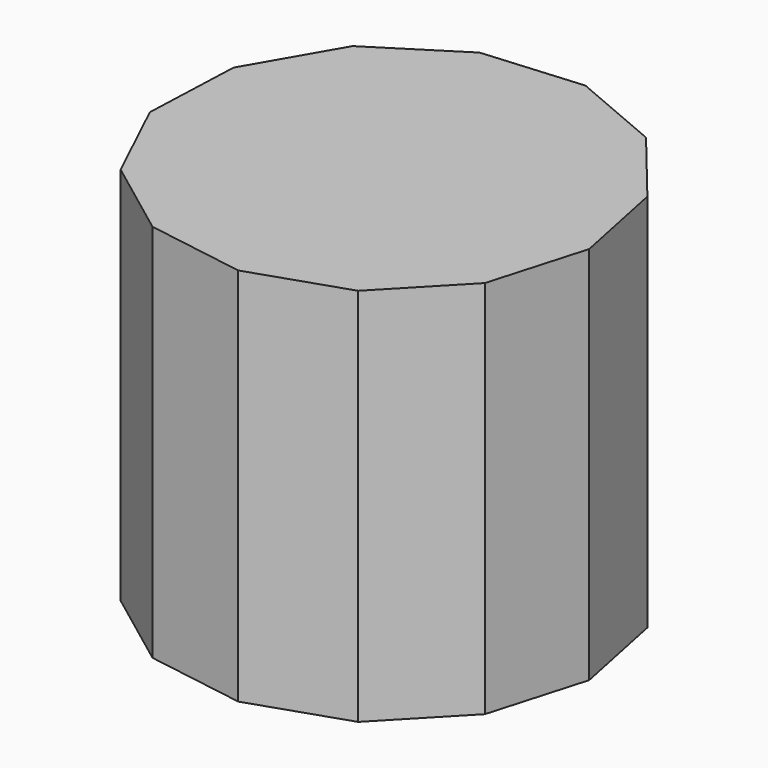
from build123d import *

# Parameters (mm, degrees)
F1_DEPTH = 43.942


with BuildPart() as f1:
    # F0 (on Top) → F1 (new body, symmetric)
    with BuildSketch(Plane.XY):
        Polygon((-47.283915, -9.686464), (-37.366303, -30.550869), (-18.888521, -44.416438), (3.916393, -48.106737), (25.824109, -40.776361), (41.815833, -24.104613), (48.228053, -1.910788), (43.591808, 20.720775), (28.969205, 38.605458), (7.710106, 47.646096), (-15.315285, 45.771588), (-34.832129, 33.41136), (-46.369352, 13.396993), align=None)
    extrude(amount=F1_DEPTH, both=True)


solid = f1.part
